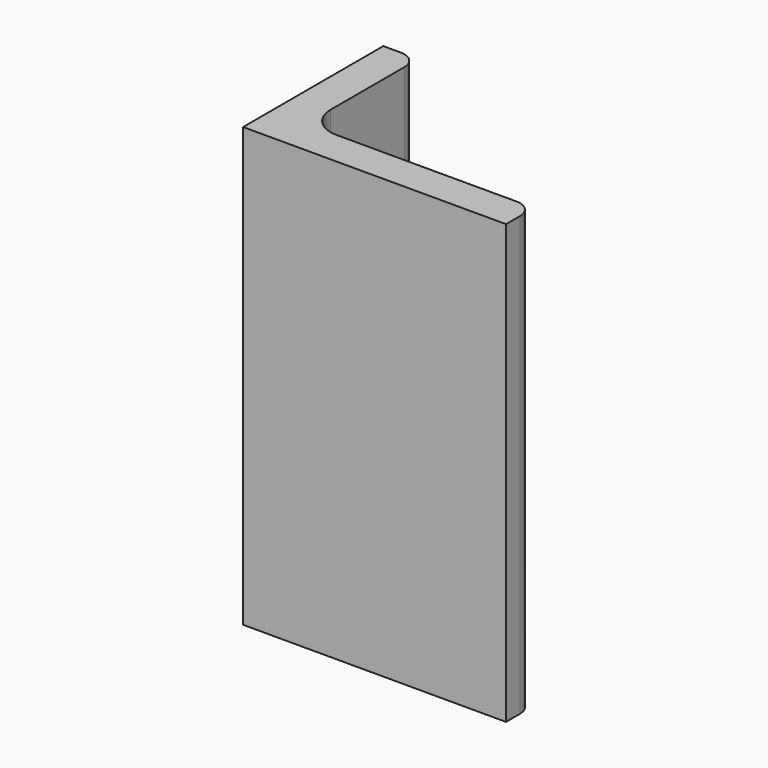
from build123d import *

# Parameters (mm, degrees)
EXTRUDE_DEPTH = 50


with BuildPart() as part:
    # Sketch → Extrude (new body)
    with BuildSketch(Plane.XY):
        with BuildLine():
            Line((0, 0), (30, 0))
            Line((30, 0), (30, 2))
            ThreePointArc((30, 2), (29.414214, 3.414214), (28, 4))
            Line((28, 4), (7.5, 4))
            ThreePointArc((4, 7.5), (5.025126, 5.025126), (7.5, 4))
            Line((4, 18), (4, 7.5))
            ThreePointArc((4, 18), (3.414214, 19.414214), (2, 20))
            Line((0, 20), (2, 20))
            Line((0, 0), (0, 20))
        make_face()
    extrude(amount=EXTRUDE_DEPTH)


solid = part.part
